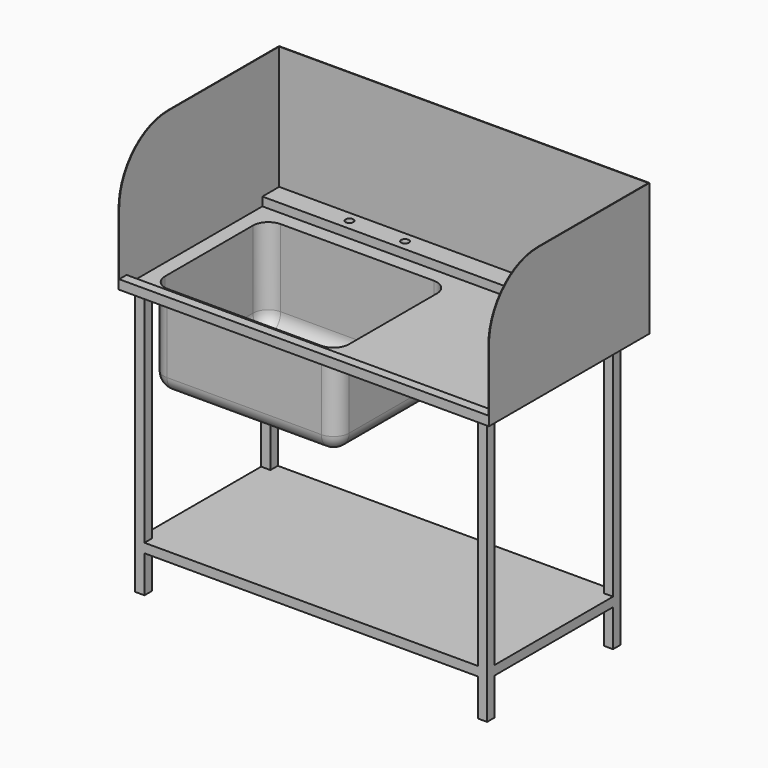
from build123d import *

# Parameters (mm, degrees)
F1_DEPTH       = 1200
F2_W           = 2
F2_H           = 430
F3_DEPTH       = 648
F4_R           = 200
F5_W           = 600
F5_H           = 460
F6_DEPTH       = 300
F7_W           = 596
F7_H           = 456
F8_DEPTH       = 300
F9_R           = 50
F10_R          = 50
F11_R          = 50
F12_R          = 12.5
F13_DEPTH      = 30
F14_W          = 30
F14_H          = 30
F15_DEPTH      = 865
F16_W          = 540
F16_H          = 30
F17_DEPTH      = 1110
F17_DEPTH_BACK = 30
F18_R          = 25
F19_DEPTH      = 2


with BuildPart() as f1:
    # F0 (on Right) → F1 (new body)
    with BuildSketch(Plane.YZ):
        Polygon((30, 0), (0, 0), (0, -30), (650, -30), (650, 400), (648, 400), (648, 0), (580, 0), (580, -28), (30, -28), align=None)
    extrude(amount=F1_DEPTH)

    # F2 (on Front) → F3 (join, through all)
    with BuildSketch(Plane.XZ):
        with Locations((1, 185)):
            Rectangle(F2_W, F2_H)
        with Locations((1199, 185)):
            Rectangle(F2_W, F2_H)
    extrude(amount=-F3_DEPTH)

    # F4
    f4_edges = [f1.edges().sort_by_distance(p)[0] for p in [
        (1, 0, 400),
        (1199, 0, 400),
    ]]
    fillet(f4_edges, radius=F4_R)

    # F5 (on face) → F6 (join)
    with BuildSketch(Plane(origin=(0, 0, -30), x_dir=(1, 0, 0), z_dir=(0, 0, -1))):
        with Locations((347, -305)):
            Rectangle(F5_W, F5_H)
    extrude(amount=F6_DEPTH)

    # F7 (on face) → F8 (cut)
    with BuildSketch(Plane.XY.offset(-28)):
        with Locations((347, 305)):
            Rectangle(F7_W, F7_H)
    extrude(amount=-F8_DEPTH, mode=Mode.SUBTRACT)

    # F9
    f9_edges = [f1.edges().sort_by_distance(p)[0] for p in [
        (645, 533, -178),
        (49, 533, -178),
        (49, 77, -178),
        (645, 77, -178),
    ]]
    fillet(f9_edges, radius=F9_R)

    # F10
    f10_edges = [f1.edges().sort_by_distance(p)[0] for p in [
        (47, 535, -180),
        (47, 75, -180),
        (647, 75, -180),
        (647, 535, -180),
    ]]
    fillet(f10_edges, radius=F10_R)

    # F11
    f11_edges = [f1.edges().sort_by_distance(p)[0] for p in [
        (347, 533, -328),
        (47, 305, -330),
    ]]
    fillet(f11_edges, radius=F11_R)

    # F12 (on face) → F13 (cut, through all)
    with BuildSketch(Plane.XY):
        with Locations((257, 614)):
            Circle(F12_R)
        with Locations((437, 614)):
            Circle(F12_R)
    extrude(amount=-F13_DEPTH, mode=Mode.SUBTRACT)

    # F14 (on face) → F15 (join)
    with BuildSketch(Plane(origin=(0, 0, -30), x_dir=(1, 0, 0), z_dir=(0, 0, -1))):
        with Locations((45, -45)):
            Rectangle(F14_W, F14_H)
        with Locations((1155, -45)):
            Rectangle(F14_W, F14_H)
        with Locations((1155, -555)):
            Rectangle(F14_W, F14_H)
        with Locations((45, -555)):
            Rectangle(F14_W, F14_H)
    extrude(amount=F15_DEPTH)

    # F16 (on face) → F17 (join, two sides)
    with BuildSketch(Plane.YZ.offset(60)) as f17_sk:
        with Locations((300, -760)):
            Rectangle(F16_W, F16_H)
    extrude(amount=F17_DEPTH)
    extrude(f17_sk.sketch, amount=-F17_DEPTH_BACK)

    # F18 (on face) → F19 (cut, through all)
    with BuildSketch(Plane.XY.offset(-328)):
        with Locations((347, 305)):
            Circle(F18_R)
    extrude(amount=-F19_DEPTH, mode=Mode.SUBTRACT)


solid = f1.part
